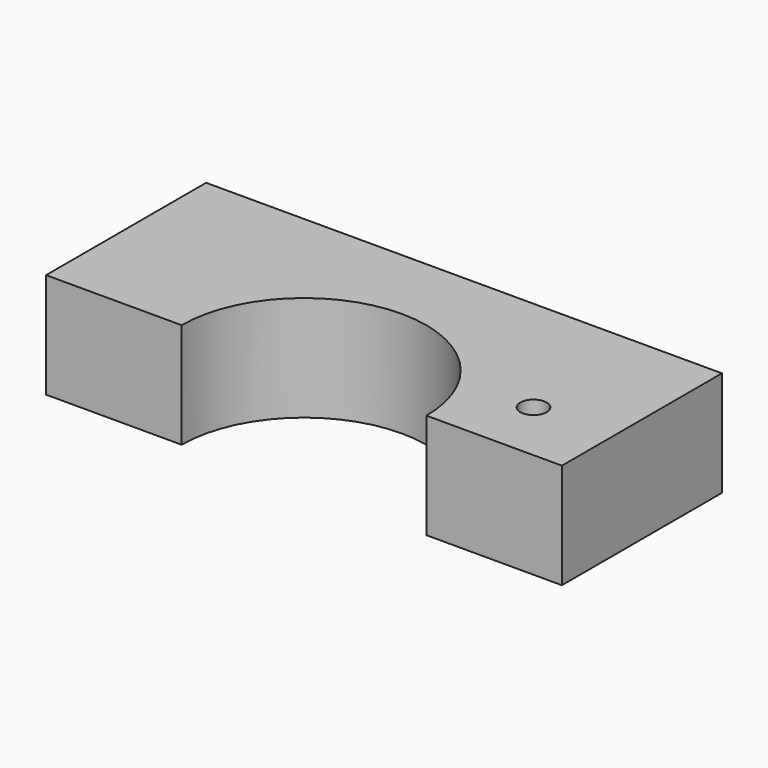
from build123d import *

# Parameters (mm, degrees)
F1_DEPTH = 20
F2_R     = 2.5
F3_DEPTH = 20
F4_R     = 2.5
F5_DEPTH = 20


with BuildPart() as f1:
    # F0 (on Top) → F1 (new body)
    with BuildSketch(Plane.XY):
        with BuildLine():
            Line((49, -19), (49, 19))
            Line((49, 19), (-49, 19))
            Line((-49, 19), (-49, -19))
            Line((-49, -19), (-23.25, -19))
            ThreePointArc((-23.25, -19), (0, 4.25), (23.25, -19))
            Line((23.25, -19), (49, -19))
        make_face()
    extrude(amount=F1_DEPTH)

    # F2 (on face) → F3 (cut)
    with BuildSketch(Plane(origin=(0, 19, 0), x_dir=(-1, 0, 0), z_dir=(0, 1, 0))):
        with Locations((-37, 10)):
            Circle(F2_R)
        with Locations((37, 10)):
            Circle(F2_R)
    extrude(amount=-F3_DEPTH, mode=Mode.SUBTRACT)

    # F4 (on face) → F5 (cut)
    with BuildSketch(Plane.XY.offset(20)):
        with Locations((34, -7)):
            Circle(F4_R)
    extrude(amount=-F5_DEPTH, mode=Mode.SUBTRACT)


solid = f1.part
